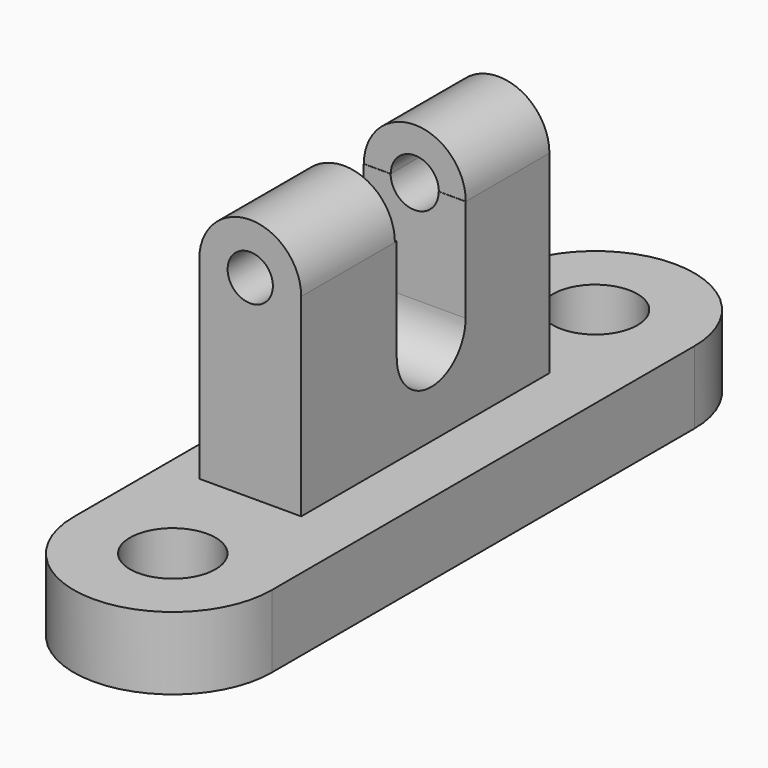
from build123d import *

# Parameters (mm, degrees)
F0_R      = 11.2267046734
F0_R_2    = 11.0852071495
F1_DEPTH  = 19.05
F2_W      = 26.7343660817
F2_H      = 81.4062468708
F3_DEPTH  = 50.8
F5_DEPTH  = 42.4459602142
F6_R      = 6.3073673096
F7_DEPTH  = 27.432
F8_DEPTH  = 136.6678641567
F9_R      = 5.937984747
F10_DEPTH = 30.734


with BuildPart() as f1:
    # F0 (on Top) → F1 (new body)
    with BuildSketch(Plane.XY):
        with BuildLine():
            Line((-18.1084536016, 67.2573745251), (-18.1084536016, -71.298904717))
            ThreePointArc((-18.1084536016, -71.298904717), (7.8795179725, -97.286876291), (33.8674895465, -71.298904717))
            Line((33.8674895465, -71.298904717), (33.8674895465, 67.2573745251))
            ThreePointArc((33.8674895465, 67.2573745251), (7.8795179725, 93.2453460991), (-18.1084536016, 67.2573745251))
        make_face()
        with Locations((7.8795179725, -71.298904717)):
            Circle(F0_R, mode=Mode.SUBTRACT)
        with Locations((7.8795179725, 67.2573745251)):
            Circle(F0_R_2, mode=Mode.SUBTRACT)
    extrude(amount=F1_DEPTH)

    # F2 (on face) → F3 (join)
    with BuildSketch(Plane.XY.offset(19.05)):
        with Locations((4.7897123732, -1.3231355697)):
            Rectangle(F2_W, F2_H)
    extrude(amount=F3_DEPTH)

    # F4 (on face) → F5 (cut, through all)
    with BuildSketch(Plane(origin=(-8.5774706677, 0, 0), x_dir=(0, -1, 0), z_dir=(-1, 0, 0))):
        with BuildLine():
            Line((10.6878159568, 69.85), (-11.8984412402, 69.85))
            Line((-11.8984412402, 69.85), (-11.8984412402, 42.8989976645))
            ThreePointArc((-11.8984412402, 42.8989976645), (-0.6053126417, 31.605869066), (10.6878159568, 42.8989976645))
            Line((10.6878159568, 42.8989976645), (10.6878159568, 69.85))
        make_face()
    extrude(amount=-F5_DEPTH, mode=Mode.SUBTRACT)

    # F6 (on face) → F7 (join)
    with BuildSketch(Plane(origin=(0, 39.3799878657, 0), x_dir=(-1, 0, 0), z_dir=(0, 1, 0))):
        with Locations((-4.7897123732, 69.85)):
            Circle(F6_R)
        with BuildLine():
            Line((1.5176549365, 69.85), (8.5774706677, 69.85))
            ThreePointArc((8.5774706677, 69.85), (-4.7897123732, 83.2171830408), (-18.156895414, 69.85))
            Line((-18.156895414, 69.85), (-11.0970796828, 69.85))
            ThreePointArc((-11.0970796828, 69.85), (-4.7897123732, 76.1573673096), (1.5176549365, 69.85))
        make_face()
    extrude(amount=-F7_DEPTH)

    # F6 (on face) → F8 (cut, through all)
    with BuildSketch(Plane(origin=(0, 39.3799878657, 0), x_dir=(-1, 0, 0), z_dir=(0, 1, 0))):
        with BuildLine():
            ThreePointArc((-11.0970796828, 69.85), (-4.7897123732, 63.5426326904), (1.5176549365, 69.85))
            Line((1.5176549365, 69.85), (-11.0970796828, 69.85))
        make_face()
        with BuildLine():
            Line((-11.0970796828, 69.85), (1.5176549365, 69.85))
            ThreePointArc((1.5176549365, 69.85), (-4.7897123732, 76.1573673096), (-11.0970796828, 69.85))
        make_face()
    extrude(amount=-F8_DEPTH, mode=Mode.SUBTRACT)

    # F9 (on face) → F10 (join)
    with BuildSketch(Plane.XZ.offset(42.0262590051)):
        with BuildLine():
            Line((11.0970796828, 69.85), (18.156895414, 69.85))
            ThreePointArc((18.156895414, 69.85), (4.7897123732, 83.2171830408), (-8.5774706677, 69.85))
            Line((-8.5774706677, 69.85), (-1.5176549365, 69.85))
            ThreePointArc((-1.5176549365, 69.85), (4.7897123732, 63.5426326904), (11.0970796828, 69.85))
        make_face()
        with Locations((4.7897123732, 69.85)):
            Circle(F9_R, mode=Mode.SUBTRACT)
    extrude(amount=-F10_DEPTH)


solid = f1.part
